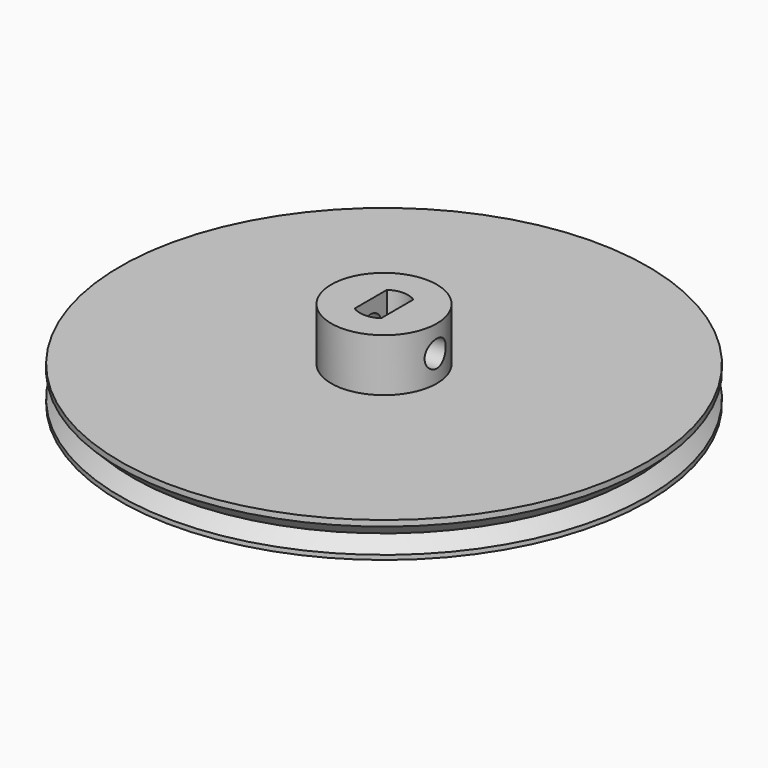
from build123d import *

# Parameters (mm, degrees)
F0_R     = 30
F1_DEPTH = 4
F2_R     = 6
F3_DEPTH = 6
F4_R     = 1.5
F5_DEPTH = 12.3


with BuildPart() as f1:
    # F0 (on Top) → F1 (new body)
    with BuildSketch(Plane.XY):
        Circle(F0_R)
    extrude(amount=F1_DEPTH)

    # F2 (on face) → F3 (join)
    with BuildSketch(Plane.XY.offset(4)):
        Circle(F2_R)
        with BuildLine():
            Line((1.5, 2.3), (1.5, -2.3))
            ThreePointArc((1.5, -2.3), (0, -2.745906), (-1.5, -2.3))
            Line((-1.5, -2.3), (-1.5, 2.3))
            ThreePointArc((-1.5, 2.3), (0, 2.745906), (1.5, 2.3))
        make_face(mode=Mode.SUBTRACT)
    extrude(amount=F3_DEPTH)

    # F4 (on Right) → F5 (cut, symmetric)
    with BuildSketch(Plane.YZ):
        with Locations((0, 7)):
            Circle(F4_R)
    extrude(amount=F5_DEPTH, both=True, mode=Mode.SUBTRACT)

    # F6 (on Front) → F7 (revolve, cut)
    with BuildSketch(Plane.XZ):
        Polygon((-30, 3.33949), (-30, 0.511062), (-28.585786, 1.925276), align=None)
    revolve(axis=Axis((0, 0, 6.11444), (0, 0, -1)), mode=Mode.SUBTRACT)


solid = f1.part
